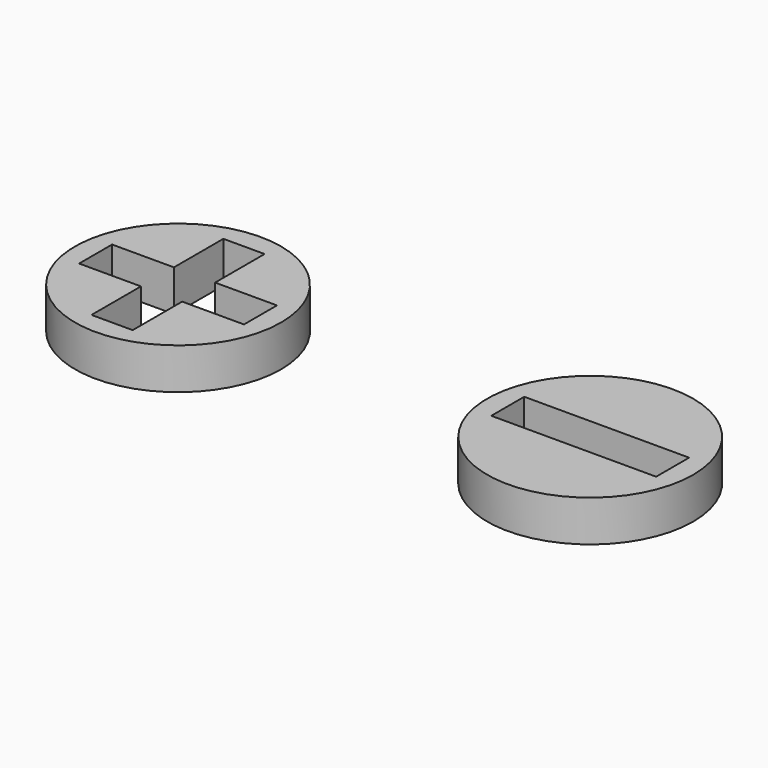
from build123d import *

# Parameters (mm, degrees)
F0_R     = 5
F0_W     = 8
F0_H     = 2
F1_DEPTH = 2


with BuildPart() as f1:
    # F0 (on Top) → F1 (new body)
    with BuildSketch(Plane.XY):
        with Locations((-10, 0)):
            Circle(F0_R)
        Polygon((-11, 4), (-9, 4), (-9, 1), (-6, 1), (-6, -1), (-9, -1), (-9, -4), (-11, -4), (-11, -1), (-14, -1), (-14, 1), (-11, 1), align=None, mode=Mode.SUBTRACT)
        with Locations((10, 0)):
            Circle(F0_R)
        with Locations((10, 0)):
            Rectangle(F0_W, F0_H, mode=Mode.SUBTRACT)
    extrude(amount=F1_DEPTH)


solid = f1.part
